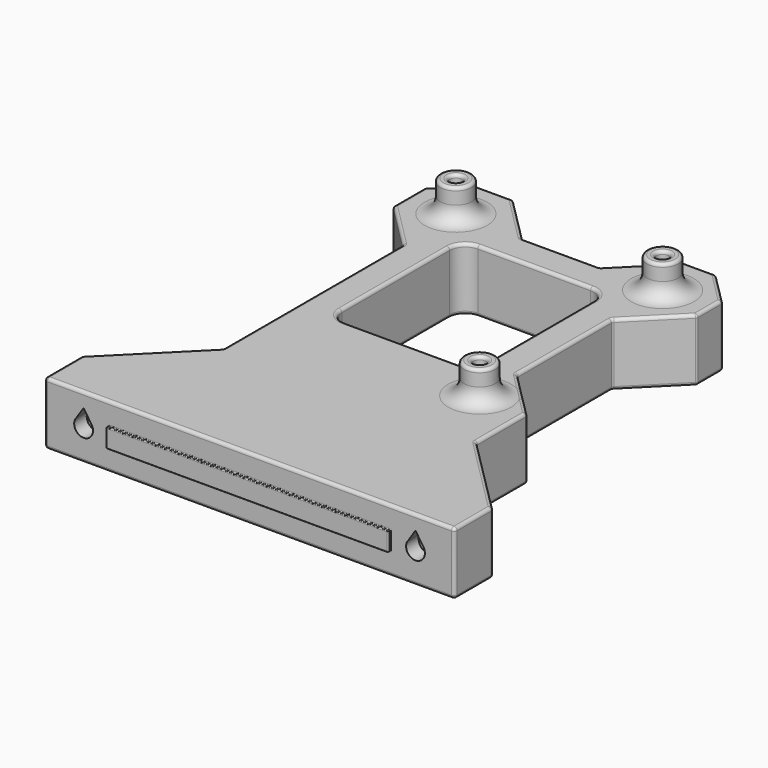
from build123d import *

# Parameters (mm, degrees)
SKETCH_R        = 2
SKETCH_W        = 46
SKETCH_H        = 53
PAD_DEPTH       = 20
SKETCH001_R     = 5
SKETCH001_R_2   = 2
PAD001_DEPTH    = 10
FILLET_R        = 5
SKETCH002_R     = 2
PAD002_DEPTH    = 25
SKETCH003_R     = 1.5
POCKET_DEPTH    = 5
POCKET001_DEPTH = 50
POCKET002_START = -5
POCKET002_DEPTH = 45
SKETCH006_W     = 90
SKETCH006_H     = 6
PAD003_DEPTH    = 1
FILLET001_R     = 0.25
FILLET002_R     = 1


with BuildPart() as part:
    # Sketch → Pad (new body)
    with BuildSketch(Plane.XY):
        Polygon((0, 0), (0, 15), (25, 40), (25, 111.786797), (10, 126.786797), (10, 139.213203), (18.786797, 148), (31.213203, 148), (46.213203, 133), (71, 133), (86, 148), (96, 148), (106, 138), (106, 128), (91, 113), (91, 75), (106, 60), (106, 40), (131, 15), (131, 0), align=None)
        with Locations((25, 133)):
            Circle(SKETCH_R, mode=Mode.SUBTRACT)
        with Locations((91, 133)):
            Circle(SKETCH_R, mode=Mode.SUBTRACT)
        with Locations((91, 60)):
            Circle(SKETCH_R, mode=Mode.SUBTRACT)
        with Locations((58, 96.5)):
            Rectangle(SKETCH_W, SKETCH_H, mode=Mode.SUBTRACT)
    extrude(amount=PAD_DEPTH)

    # Sketch001 (on Face29 of Pad) → Pad001 (join)
    with BuildSketch(Plane.XY.offset(20)):
        with Locations((25, 133)):
            Circle(SKETCH001_R)
        with Locations((25, 133)):
            Circle(SKETCH001_R_2, mode=Mode.SUBTRACT)
        with Locations((91, 133)):
            Circle(SKETCH001_R)
        with Locations((91, 133)):
            Circle(SKETCH001_R_2, mode=Mode.SUBTRACT)
        with Locations((91, 60)):
            Circle(SKETCH001_R)
        with Locations((91, 60)):
            Circle(SKETCH001_R_2, mode=Mode.SUBTRACT)
    extrude(amount=PAD001_DEPTH)

    # Fillet
    fillet_edges = [part.edges().sort_by_distance(p)[0] for p in [
        (20, 133, 20),
        (86, 133, 20),
        (86, 60, 20),
        (35, 123, 10),
        (81, 123, 10),
        (81, 70, 10),
        (35, 70, 10),
    ]]
    fillet(fillet_edges, radius=FILLET_R)

    # Sketch002 (on Face1 of Fillet) → Pad002 (join)
    with BuildSketch(Plane(origin=(0, 0, 0), x_dir=(1, 0, 0), z_dir=(0, 0, -1))):
        with Locations((25, -133)):
            Circle(SKETCH002_R)
        with Locations((91, -133)):
            Circle(SKETCH002_R)
        with Locations((91, -60)):
            Circle(SKETCH002_R)
    extrude(amount=-PAD002_DEPTH)

    # Sketch003 (on Face42 of Pad002) → Pocket (cut)
    with BuildSketch(Plane.XY.offset(25)):
        with Locations((25, 133)):
            Circle(SKETCH003_R)
        with Locations((91, 133)):
            Circle(SKETCH003_R)
        with Locations((91, 60)):
            Circle(SKETCH003_R)
    extrude(amount=-POCKET_DEPTH, mode=Mode.SUBTRACT)

    # Sketch004 (on Face25 of Pocket) → Pocket001 (cut)
    with BuildSketch(Plane.XZ):
        with BuildLine():
            ThreePointArc((116.263932, 12), (118.5, 7), (120.736068, 12))
            Line((120.736068, 12), (118.5, 15.421519))
            Line((118.5, 15.421519), (116.263932, 12))
        make_face()
        with BuildLine():
            ThreePointArc((10.263932, 12), (12.5, 7), (14.736068, 12))
            Line((14.736068, 12), (12.5, 15.4))
            Line((12.5, 15.4), (10.263932, 12))
        make_face()
    extrude(amount=-POCKET001_DEPTH, mode=Mode.SUBTRACT)

    # Sketch005 (on Face25 of Pocket001) → Pocket002 (cut)
    with BuildSketch(Plane.XZ.offset(POCKET002_START)):
        with BuildLine():
            ThreePointArc((115.670468, 13.499107), (118.5, 5.5), (121.329532, 13.499107))
            Line((121.329532, 13.499107), (118.5, 18.4))
            Line((118.5, 18.4), (115.670468, 13.499107))
        make_face()
        with BuildLine():
            ThreePointArc((8.842112, 12.621041), (12.5, 5.5), (16.157888, 12.621041))
            Line((16.157888, 12.621041), (12.5, 18.4))
            Line((12.5, 18.4), (8.842112, 12.621041))
        make_face()
    extrude(amount=-POCKET002_DEPTH, mode=Mode.SUBTRACT)

    # Sketch006 (on Face25 of Pocket002) → Pad003 (join)
    with BuildSketch(Plane.XZ):
        with Locations((65.5, 10)):
            Rectangle(SKETCH006_W, SKETCH006_H)
    extrude(amount=PAD003_DEPTH)

    # Fillet001
    fillet001_edges = [part.edges().sort_by_distance(p)[0] for p in [
        (65.5, 0, 13),
        (65.5, 0, 7),
        (65.5, -1, 7),
        (65.5, -1, 13),
        (20.5, -1, 10),
        (20.5, 0, 10),
        (20.5, -0.5, 7),
        (20.5, -0.5, 13),
        (110.5, -0.5, 13),
        (110.5, 0, 10),
        (110.5, -1, 10),
        (110.5, -0.5, 7),
    ]]
    fillet(fillet001_edges, radius=FILLET001_R)

    # Fillet002
    fillet002_edges = [part.edges().sort_by_distance(p)[0] for p in [
        (131, 7.5, 20),
        (131, 0, 10),
        (131, 15, 10),
        (118.5, 27.5, 20),
        (106, 50, 20),
        (106, 60, 10),
        (91, 94, 0),
        (106, 50, 0),
        (131, 7.5, 0),
        (65.5, 0, 0),
        (65.5, 0, 20),
        (0, 0, 10),
        (0, 7.5, 20),
        (12.5, 27.5, 20),
        (25, 75.893398, 20),
        (35, 96.5, 20),
        (91, 94, 20),
        (98.5, 67.5, 20),
        (91, 113, 10),
        (98.5, 120.5, 20),
        (98.5, 120.5, 0),
        (78.5, 140.5, 20),
        (58.606602, 133, 20),
        (38.713203, 140.5, 20),
        (17.5, 119.286797, 20),
        (10, 126.786797, 10),
        (25, 148, 20),
        (10, 133, 20),
        (14.393398, 143.606602, 20),
        (20, 133, 30),
        (23, 133, 30),
        (89, 133, 30),
        (86, 133, 30),
        (91, 148, 20),
        (101, 143, 20),
        (106, 133, 20),
        (106, 133, 0),
        (106, 138, 10),
        (106, 128, 10),
        (106, 40, 10),
        (91, 75, 10),
        (98.5, 67.5, 0),
        (96, 148, 10),
        (89, 60, 30),
        (86, 60, 30),
        (86, 148, 10),
        (58.606602, 133, 0),
        (46.213203, 133, 10),
        (38.713203, 140.5, 0),
        (31.213203, 148, 10),
        (18.786797, 148, 10),
        (25, 148, 0),
        (91, 148, 0),
        (101, 143, 0),
        (71, 133, 10),
        (78.5, 140.5, 0),
        (118.5, 27.5, 0),
        (14.393398, 143.606602, 0),
        (10, 139.213203, 10),
        (10, 133, 0),
        (25, 75.893398, 0),
        (0, 7.5, 0),
        (0, 15, 10),
        (25, 40, 10),
        (12.5, 27.5, 0),
        (25, 111.786797, 10),
        (17.5, 119.286797, 0),
        (58, 70, 0),
    ]]
    fillet(fillet002_edges, radius=FILLET002_R)


solid = part.part
